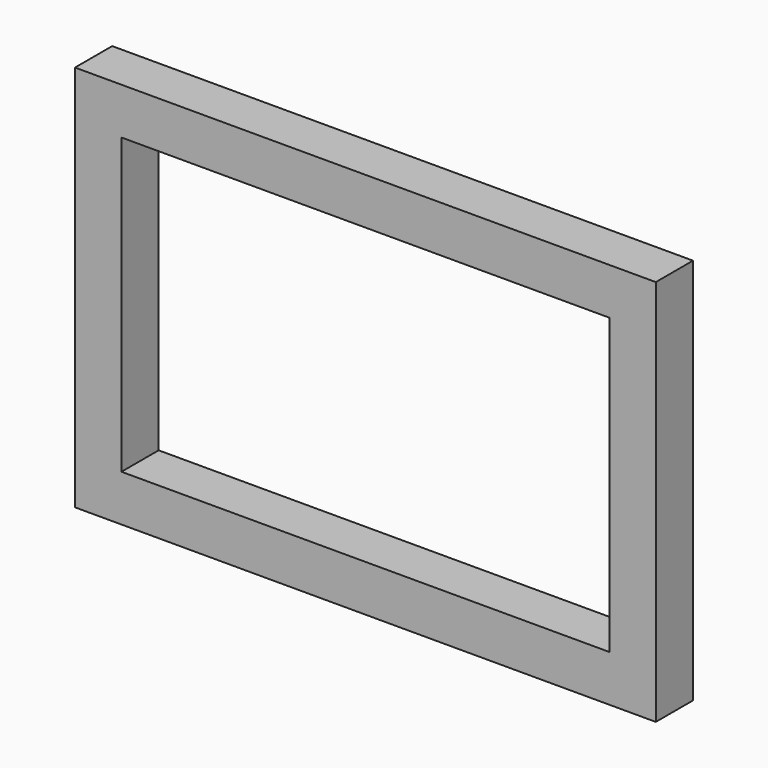
from build123d import *

# Parameters (mm, degrees)
F1_DEPTH = 12


with BuildPart() as f1:
    # F0 (on Front) → F1 (new body)
    with BuildSketch(Plane.XZ):
        Polygon((-63, 50), (-75, 50), (-75, -50), (75, -50), (75, 50), align=None)
        Polygon((0, -38), (-63, -38), (-63, 38), (0, 38), (63, 38), (63, -38), align=None, mode=Mode.SUBTRACT)
    extrude(amount=F1_DEPTH)


solid = f1.part
